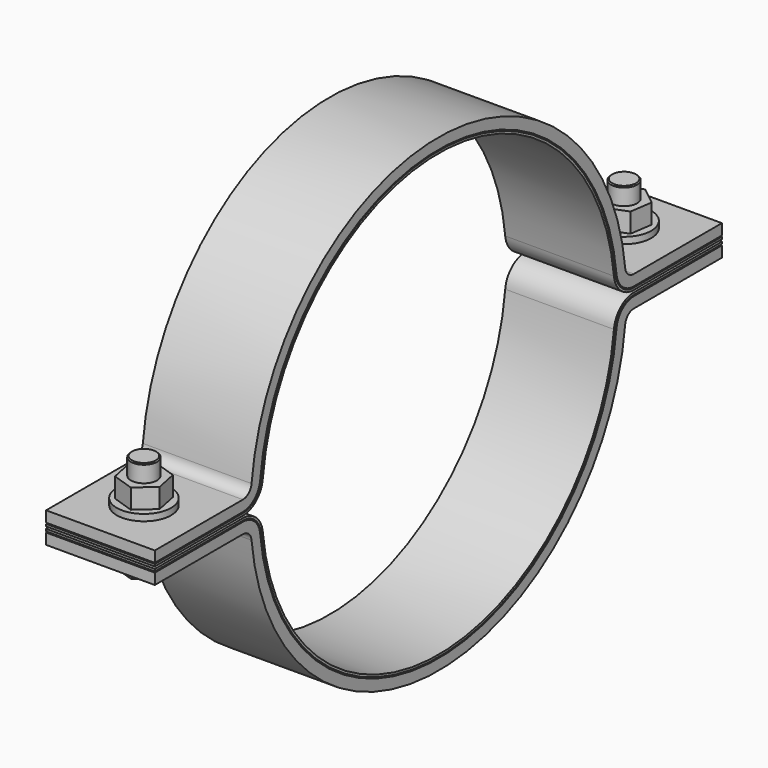
from build123d import *

# Parameters (mm, degrees)
F1_DEPTH  = 25
F2_R      = 6
F3_DEPTH  = 12
F2_R_2    = 12.5
F4_DEPTH  = 3
F5_R      = 6
F6_DEPTH  = 25
F7_R      = 6
F8_DEPTH  = 11
F8_FACE_R = 6
F9_DEPTH  = 11
F10_R     = 6
F11_DEPTH = 3.999998
F13_DEPTH = 50
F14_SIZE  = 0.5


with BuildPart() as f1:
    # F0 (on Right) → F1 (new body, symmetric)
    with BuildSketch(Plane.YZ):
        with BuildLine():
            Line((163.000013, 1.999999), (163.000013, 7))
            Line((163.000013, 7), (112.361038, 7))
            ThreePointArc((112.361038, 7), (109.018499, 8.281474), (107.389311, 11.469027))
            ThreePointArc((107.389311, 11.469027), (0, 108.000013), (-107.389311, 11.469027))
            ThreePointArc((-107.389311, 11.469027), (-109.018499, 8.281474), (-112.361038, 7))
            Line((-112.361038, 7), (-163.000013, 7))
            Line((-163.000013, 7), (-163.000013, 1.999999))
            Line((-163.000013, 1.999999), (-112.361025, 1.999999))
            ThreePointArc((-112.361025, 1.999999), (-105.675948, 4.562948), (-102.417572, 10.938052))
            ThreePointArc((-102.417572, 10.938052), (0, 103), (102.417572, 10.938052))
            ThreePointArc((102.417572, 10.938052), (105.675948, 4.562948), (112.361025, 1.999999))
            Line((112.361025, 1.999999), (163.000013, 1.999999))
        make_face()
        with BuildLine():
            ThreePointArc((-112.361038, -7), (-109.018499, -8.281474), (-107.389311, -11.469027))
            ThreePointArc((-107.389311, -11.469027), (0, -108.000013), (107.389311, -11.469027))
            ThreePointArc((107.389311, -11.469027), (109.018499, -8.281474), (112.361038, -7))
            Line((112.361038, -7), (163.000013, -7))
            Line((163.000013, -7), (163.000013, -1.999999))
            Line((163.000013, -1.999999), (112.361025, -1.999999))
            ThreePointArc((112.361025, -1.999999), (105.675948, -4.562948), (102.417572, -10.938052))
            ThreePointArc((102.417572, -10.938052), (0, -103), (-102.417572, -10.938052))
            ThreePointArc((-102.417572, -10.938052), (-105.675948, -4.562948), (-112.361025, -1.999999))
            Line((-112.361025, -1.999999), (-163.000013, -1.999999))
            Line((-163.000013, -1.999999), (-163.000013, -7))
            Line((-163.000013, -7), (-112.361038, -7))
        make_face()
    extrude(amount=F1_DEPTH, both=True)

    # F2 (on face) → F3 (join)
    with BuildSketch(Plane.XY.offset(7)):
        Polygon((-9.860961, -134.719549), (-7.771445, -144.899624), (2.089516, -148.180087), (9.860961, -141.280476), (7.771445, -131.100401), (-2.089516, -127.819938), align=None)
        with Locations((0, -138.000013)):
            Circle(F2_R, mode=Mode.SUBTRACT)
        Polygon((-9.658712, 134.164745), (-1.507917, 127.717689), (8.150795, 131.552956), (9.658712, 141.83528), (1.507917, 148.282336), (-8.150795, 144.447069), align=None)
        with Locations((0, 138.000013)):
            Circle(F2_R, mode=Mode.SUBTRACT)
        with Locations((0, 138.000013)):
            Circle(F2_R)
    extrude(amount=F3_DEPTH)

    # F2 (on face) → F4 (join)
    with BuildSketch(Plane.XY.offset(7)):
        with Locations((0, -138.000013)):
            Circle(F2_R_2)
        Polygon((2.089516, -148.180087), (-7.771445, -144.899624), (-9.860961, -134.719549), (-2.089516, -127.819938), (7.771445, -131.100401), (9.860961, -141.280476), align=None, mode=Mode.SUBTRACT)
        with Locations((0, 138.000013)):
            Circle(F2_R_2)
        Polygon((8.150795, 131.552956), (-1.507917, 127.717689), (-9.658712, 134.164745), (-8.150795, 144.447069), (1.507917, 148.282336), (9.658712, 141.83528), align=None, mode=Mode.SUBTRACT)
    extrude(amount=F4_DEPTH)

    # F5 (on face) → F6 (join)
    with BuildSketch(Plane(origin=(0, 0, 1.999999), x_dir=(1, 0, 0), z_dir=(0, 0, -1))):
        with Locations((0, -138.000013)):
            Circle(F5_R)
        with Locations((0, 138.000013)):
            Circle(F5_R)
    extrude(amount=-F6_DEPTH)

    # F7 (on face) → F8 (join)
    with BuildSketch(Plane(origin=(0, 0, -7), x_dir=(1, 0, 0), z_dir=(0, 0, -1))):
        Polygon((9.796769, -141.467479), (7.901298, -131.249495), (-1.89547, -127.782029), (-9.796769, -134.532546), (-7.901298, -144.75053), (1.89547, -148.217996), align=None)
        with Locations((0, -138.000013)):
            Circle(F7_R, mode=Mode.SUBTRACT)
        Polygon((-9.94295, 134.977141), (-2.353591, 127.87773), (7.589359, 130.900602), (9.94295, 141.022884), (2.353591, 148.122295), (-7.589359, 145.099424), align=None)
        with Locations((0, 138.000013)):
            Circle(F7_R, mode=Mode.SUBTRACT)
    extrude(amount=F8_DEPTH)

    # F8_face (on face) → F9 (join, through all)
    with BuildSketch(Plane(origin=(0, -138.000013, -7), x_dir=(1, 0, 0), z_dir=(0, 0, -1))):
        Circle(F8_FACE_R)
        with Locations((0, -276.000025)):
            Circle(F8_FACE_R)
    extrude(amount=F9_DEPTH)

    # F14
    f14_edges = [f1.edges().sort_by_distance(p)[0] for p in [
        (-6, -138.000013, 26.999999),
        (-6, 138.000013, 26.999999),
    ]]
    chamfer(f14_edges, length=F14_SIZE)


with BuildPart() as f11:
    # F10 (on face) → F11 (new body, through all)
    with BuildSketch(Plane(origin=(0, 0, 1.999999), x_dir=(1, 0, 0), z_dir=(0, 0, -1))):
        with Locations((0, -138.000013)):
            Circle(F10_R)
        with Locations((0, 138.000013)):
            Circle(F10_R)
    extrude(amount=F11_DEPTH)


with BuildPart() as f13:
    # F12 (on face) → F13 (new body, through all)
    with BuildSketch(Plane(origin=(-25, 0, 0), x_dir=(0, -1, 0), z_dir=(-1, 0, 0))):
        with BuildLine():
            Line((163.000013, 1.499999), (112.361025, 1.499999))
            ThreePointArc((112.361025, 1.499999), (105.341694, 4.191095), (101.920399, 10.884955))
            ThreePointArc((101.920399, 10.884955), (0, 102.5), (-101.920399, 10.884955))
            ThreePointArc((-101.920399, 10.884955), (-105.341694, 4.191095), (-112.361025, 1.499999))
            Line((-112.361025, 1.499999), (-163.000013, 1.499999))
            Line((-163.000013, 1.499999), (-163.000013, 0.499999))
            Line((-163.000013, 0.499999), (-112.361025, 0.499999))
            ThreePointArc((-112.361025, 0.499999), (-104.673186, 3.44739), (-100.926054, 10.77876))
            ThreePointArc((-100.926054, 10.77876), (0, 101.5), (100.926054, 10.77876))
            ThreePointArc((100.926054, 10.77876), (104.673186, 3.44739), (112.361025, 0.499999))
            Line((112.361025, 0.499999), (163.000013, 0.499999))
            Line((163.000013, 0.499999), (163.000013, 1.499999))
        make_face()
        with BuildLine():
            ThreePointArc((101.920399, -10.884955), (105.341694, -4.191095), (112.361025, -1.499999))
            Line((112.361025, -1.499999), (163.000013, -1.499999))
            Line((163.000013, -1.499999), (163.000013, -0.499999))
            Line((163.000013, -0.499999), (112.361025, -0.499999))
            ThreePointArc((112.361025, -0.499999), (104.673186, -3.44739), (100.926054, -10.77876))
            ThreePointArc((100.926054, -10.77876), (0, -101.5), (-100.926054, -10.77876))
            ThreePointArc((-100.926054, -10.77876), (-104.673186, -3.44739), (-112.361025, -0.499999))
            Line((-112.361025, -0.499999), (-163.000013, -0.499999))
            Line((-163.000013, -0.499999), (-163.000013, -1.499999))
            Line((-163.000013, -1.499999), (-112.361025, -1.499999))
            ThreePointArc((-112.361025, -1.499999), (-105.341694, -4.191095), (-101.920399, -10.884955))
            ThreePointArc((-101.920399, -10.884955), (0, -102.5), (101.920399, -10.884955))
        make_face()
    extrude(amount=-F13_DEPTH)


solid = Compound([f1.part, f11.part, f13.part])
